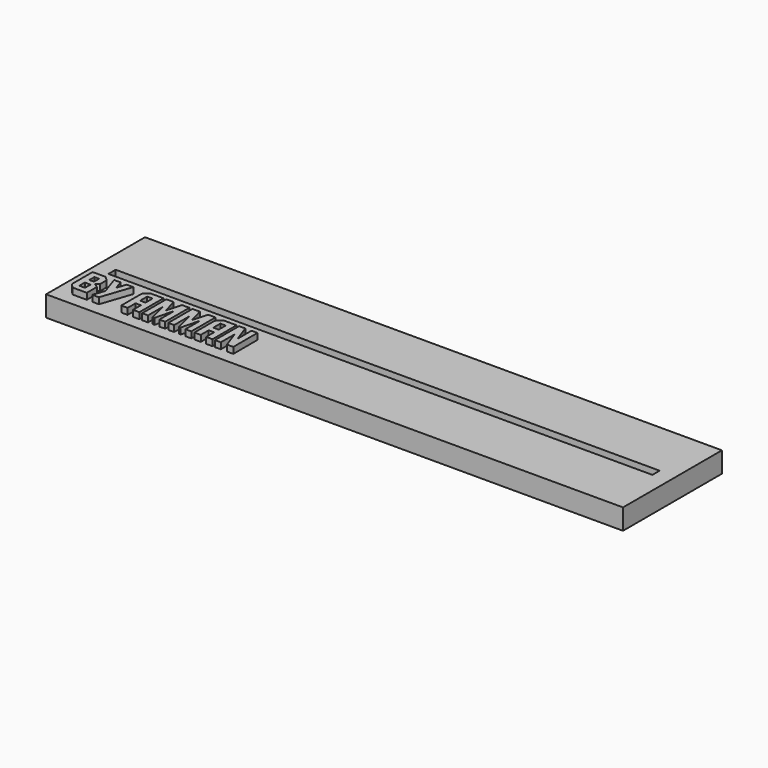
from build123d import *

# Parameters (mm, degrees)
F0_W     = 140
F0_H     = 30
F1_DEPTH = 5
F2_W     = 132
F2_H     = 2.2
F3_DEPTH = 2
F4_W     = 1.375111
F4_H     = 1.664341
F4_W_2   = 1.126474
F4_H_2   = 1.517188
F4_W_3   = 1.309146
F4_H_3   = 2.136242
F5_DEPTH = 1.5


with BuildPart() as f1:
    # F0 (on Top) → F1 (new body)
    with BuildSketch(Plane.XY):
        Rectangle(F0_W, F0_H)
    extrude(amount=F1_DEPTH)

    # F2 (on face) → F3 (cut)
    with BuildSketch(Plane.XY.offset(5)):
        Rectangle(F2_W, F2_H)
    extrude(amount=-F3_DEPTH, mode=Mode.SUBTRACT)

    # F4 (on face) → F5 (join)
    with BuildSketch(Plane.XY.offset(5)):
        Polygon((-62.559685, -11.951999), (-62.559685, -8.897324), (-63.549156, -8.181861), (-62.828619, -7.603401), (-62.828619, -5.583865), (-63.868832, -4.614691), (-67.014842, -4.614691), (-67.014842, -10.937157), (-66, -11.951999), align=None)
        with Locations((-64.7898, -9.729494)):
            Rectangle(F4_W, F4_H, mode=Mode.SUBTRACT)
        with Locations((-64.914119, -6.768693)):
            Rectangle(F4_W_2, F4_H_2, mode=Mode.SUBTRACT)
        Polygon((-57.140429, -4.614691), (-58.738805, -4.614691), (-59.510085, -6.887937), (-60.220474, -4.614691), (-61.808702, -4.614691), (-60.271217, -9.145961), (-61.220094, -11.951999), (-59.616643, -11.951999), align=None)
        Polygon((-54.197387, -11.951999), (-52.654827, -11.951999), (-52.654827, -9.541749), (-51.345681, -9.541749), (-51.345681, -11.951999), (-49.808195, -11.951999), (-49.808195, -4.614691), (-53.015096, -4.614691), (-54.197387, -5.776685), align=None)
        with Locations((-52.000254, -7.07822)):
            Rectangle(F4_W_3, F4_H_3, mode=Mode.SUBTRACT)
        Polygon((-43.541545, -4.614691), (-45.317519, -4.614691), (-46.332361, -8.268122), (-47.347203, -4.614691), (-49.123176, -4.614691), (-49.123176, -11.951999), (-47.702398, -11.951999), (-47.702398, -7.38521), (-46.5607, -11.951999), (-46.104021, -11.951999), (-44.962324, -7.38521), (-44.962324, -11.951999), (-43.541545, -11.951999), align=None)
        Polygon((-37.203856, -4.614691), (-38.97983, -4.614691), (-39.994672, -8.268122), (-41.009514, -4.614691), (-42.785488, -4.614691), (-42.785488, -11.951999), (-41.364709, -11.951999), (-41.364709, -7.38521), (-40.223012, -11.951999), (-39.766333, -11.951999), (-38.624635, -7.38521), (-38.624635, -11.951999), (-37.203856, -11.951999), align=None)
        Polygon((-36.447799, -11.951999), (-34.905239, -11.951999), (-34.905239, -9.541749), (-33.596093, -9.541749), (-33.596093, -11.951999), (-32.058607, -11.951999), (-32.058607, -4.614691), (-35.265508, -4.614691), (-36.447799, -5.776685), align=None)
        with Locations((-34.250666, -7.07822)):
            Rectangle(F4_W_3, F4_H_3, mode=Mode.SUBTRACT)
        Polygon((-28.466066, -4.614691), (-28.466066, -8.826285), (-29.957884, -4.614691), (-31.480147, -4.614691), (-31.480147, -11.951999), (-30.039071, -11.951999), (-30.039071, -7.740404), (-28.537105, -11.951999), (-27.014842, -11.951999), (-27.014842, -4.614691), align=None)
    extrude(amount=F5_DEPTH)


solid = f1.part
